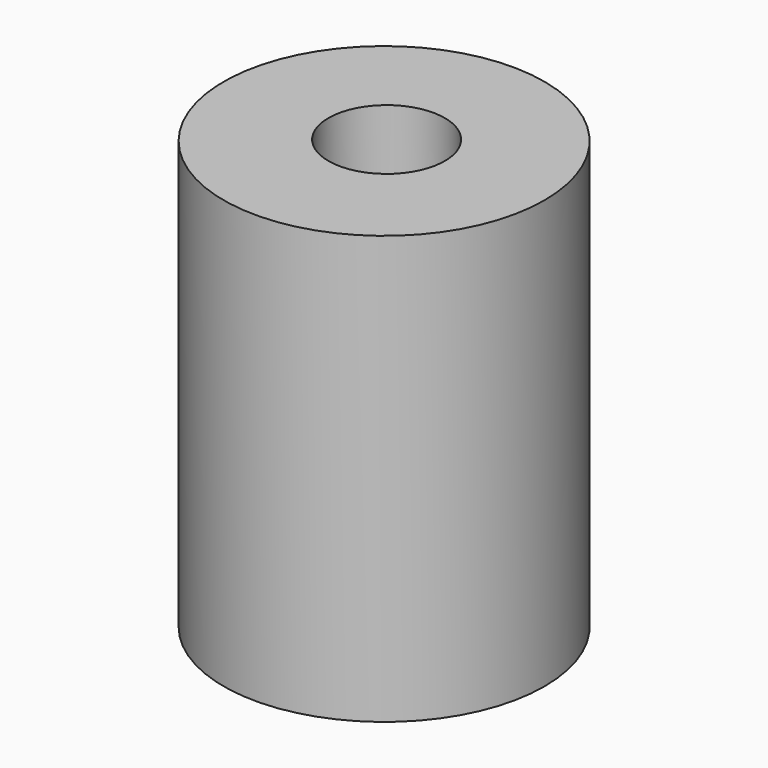
from build123d import *

# Parameters (mm, degrees)
F0_R     = 4.7625
F1_DEPTH = 12.7
F3_D     = 3.4544
F3_DEPTH = 3.175
F3_TIP   = 1.0378064612
F4_D     = 3.4544
F4_DEPTH = 3.175
F4_TIP   = 1.0378064612


with BuildPart() as f1:
    # F0 (on Top) → F1 (new body)
    with BuildSketch(Plane.XY):
        with Locations((0, -0.0934494074)):
            Circle(F0_R)
    extrude(amount=F1_DEPTH)

    # F3
    with Locations(Plane.XY.offset(12.7)):
        with Locations((0, 0)):
            Hole(F3_D / 2, depth=F3_DEPTH)
            with Locations((0, 0, -(F3_DEPTH + F3_TIP / 2))):  # 118° drill point
                Cone(0, F3_D / 2, F3_TIP, mode=Mode.SUBTRACT)

    # F4
    with Locations(Plane(origin=(0, 0, 0), x_dir=(1, 0, 0), z_dir=(0, 0, -1))):
        with Locations((0, 0.0934494074)):
            Hole(F4_D / 2, depth=F4_DEPTH)
            with Locations((0, 0, -(F4_DEPTH + F4_TIP / 2))):  # 118° drill point
                Cone(0, F4_D / 2, F4_TIP, mode=Mode.SUBTRACT)


solid = f1.part
